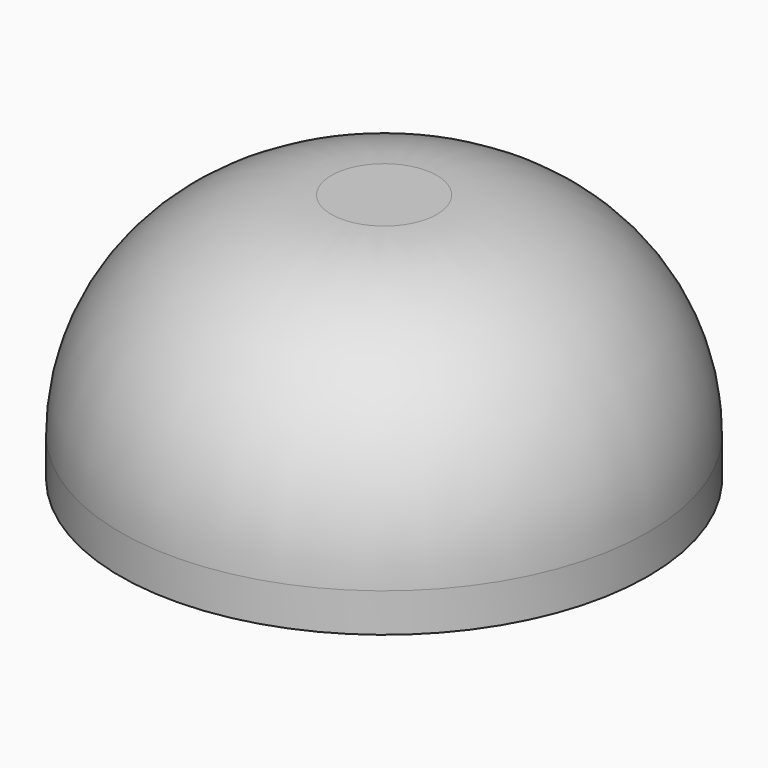
from build123d import *

# Parameters (mm, degrees)
F0_R     = 7.5
F1_DEPTH = 7.1
F2_R     = 1.75
F3_DEPTH = 4
F4_R     = 6


with BuildPart() as f1:
    # F0 (on Top) → F1 (new body)
    with BuildSketch(Plane.XY):
        Circle(F0_R)
    extrude(amount=F1_DEPTH)

    # F2 (on face) → F3 (cut)
    with BuildSketch(Plane(origin=(0, 0, 0), x_dir=(1, 0, 0), z_dir=(0, 0, -1))):
        Circle(F2_R)
    extrude(amount=-F3_DEPTH, mode=Mode.SUBTRACT)

    # F4
    f4_edges = [f1.edges().sort_by_distance(p)[0] for p in [
        (-7.5, 0, 7.1),
    ]]
    fillet(f4_edges, radius=F4_R)


solid = f1.part
